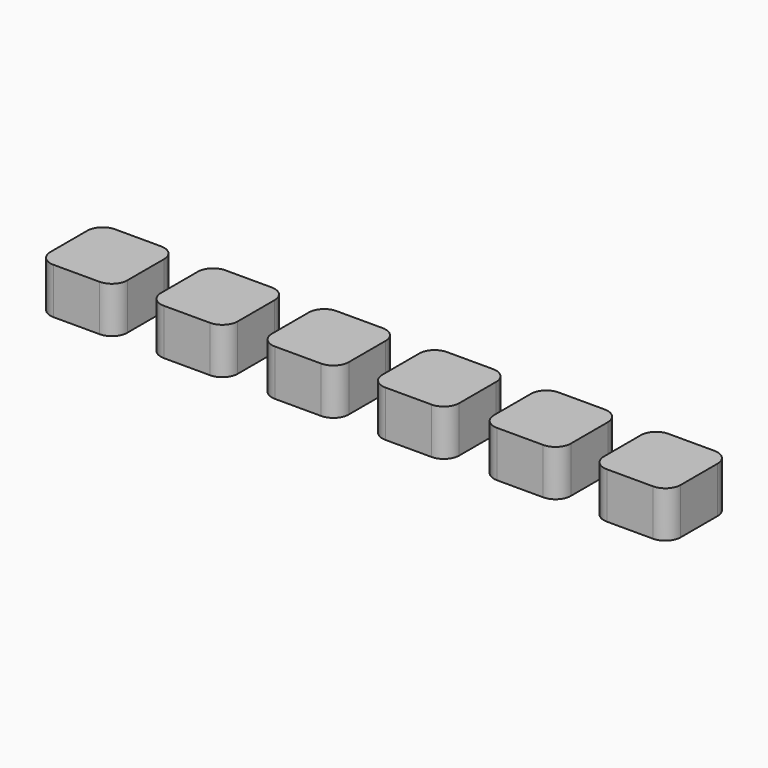
from build123d import *

# Parameters (mm, degrees)
F1_DEPTH = 3


with BuildPart() as f1:
    # F0 (on Top) → F1 (new body)
    with BuildSketch(Plane.XY):
        with BuildLine():
            Line((-32.719563, 12.147736), (-35.719563, 12.147736))
            ThreePointArc((-35.719563, 12.147736), (-36.42667, 11.854843), (-36.719563, 11.147736))
            Line((-36.719563, 11.147736), (-36.719563, 8.147736))
            ThreePointArc((-36.719563, 8.147736), (-36.42667, 7.44063), (-35.719563, 7.147736))
            Line((-35.719563, 7.147736), (-32.719563, 7.147736))
            ThreePointArc((-32.719563, 7.147736), (-32.012457, 7.44063), (-31.719563, 8.147736))
            Line((-31.719563, 8.147736), (-31.719563, 11.147736))
            ThreePointArc((-31.719563, 11.147736), (-32.012457, 11.854843), (-32.719563, 12.147736))
        make_face()
        with BuildLine():
            Line((-11.119563, 12.133538), (-14.119563, 12.133538))
            ThreePointArc((-14.119563, 12.133538), (-14.82667, 11.840645), (-15.119563, 11.133538))
            Line((-15.119563, 11.133538), (-15.119563, 8.133538))
            ThreePointArc((-15.119563, 8.133538), (-14.82667, 7.426431), (-14.119563, 7.133538))
            Line((-14.119563, 7.133538), (-11.119563, 7.133538))
            ThreePointArc((-11.119563, 7.133538), (-10.412457, 7.426431), (-10.119563, 8.133538))
            Line((-10.119563, 8.133538), (-10.119563, 11.133538))
            ThreePointArc((-10.119563, 11.133538), (-10.412457, 11.840645), (-11.119563, 12.133538))
        make_face()
        with BuildLine():
            Line((-18.319563, 12.204323), (-21.319563, 12.204323))
            ThreePointArc((-21.319563, 12.204323), (-22.02667, 11.91143), (-22.319563, 11.204323))
            Line((-22.319563, 11.204323), (-22.319563, 8.204323))
            ThreePointArc((-22.319563, 8.204323), (-22.02667, 7.497216), (-21.319563, 7.204323))
            Line((-21.319563, 7.204323), (-18.319563, 7.204323))
            ThreePointArc((-18.319563, 7.204323), (-17.612457, 7.497216), (-17.319563, 8.204323))
            Line((-17.319563, 8.204323), (-17.319563, 11.204323))
            ThreePointArc((-17.319563, 11.204323), (-17.612457, 11.91143), (-18.319563, 12.204323))
        make_face()
        with BuildLine():
            Line((-25.519563, 12.128757), (-28.519563, 12.128757))
            ThreePointArc((-28.519563, 12.128757), (-29.22667, 11.835864), (-29.519563, 11.128757))
            Line((-29.519563, 11.128757), (-29.519563, 8.128757))
            ThreePointArc((-29.519563, 8.128757), (-29.22667, 7.42165), (-28.519563, 7.128757))
            Line((-28.519563, 7.128757), (-25.519563, 7.128757))
            ThreePointArc((-25.519563, 7.128757), (-24.812457, 7.42165), (-24.519563, 8.128757))
            Line((-24.519563, 8.128757), (-24.519563, 11.128757))
            ThreePointArc((-24.519563, 11.128757), (-24.812457, 11.835864), (-25.519563, 12.128757))
        make_face()
        with BuildLine():
            ThreePointArc((-50.119563, 12.140886), (-50.82667, 11.847993), (-51.119563, 11.140886))
            Line((-51.119563, 11.140886), (-51.119563, 8.140886))
            ThreePointArc((-51.119563, 8.140886), (-50.82667, 7.433779), (-50.119563, 7.140886))
            Line((-50.119563, 7.140886), (-47.119563, 7.140886))
            ThreePointArc((-47.119563, 7.140886), (-46.412457, 7.433779), (-46.119563, 8.140886))
            Line((-46.119563, 8.140886), (-46.119563, 11.140886))
            ThreePointArc((-46.119563, 11.140886), (-46.412457, 11.847993), (-47.119563, 12.140886))
            Line((-47.119563, 12.140886), (-50.119563, 12.140886))
        make_face()
        with BuildLine():
            ThreePointArc((-43.919563, 8.121907), (-43.62667, 7.4148), (-42.919563, 7.121907))
            Line((-42.919563, 7.121907), (-39.919563, 7.121907))
            ThreePointArc((-39.919563, 7.121907), (-39.212457, 7.4148), (-38.919563, 8.121907))
            Line((-38.919563, 8.121907), (-38.919563, 11.121907))
            ThreePointArc((-38.919563, 11.121907), (-39.212457, 11.829013), (-39.919563, 12.121907))
            Line((-39.919563, 12.121907), (-42.919563, 12.121907))
            ThreePointArc((-42.919563, 12.121907), (-43.62667, 11.829013), (-43.919563, 11.121907))
            Line((-43.919563, 11.121907), (-43.919563, 8.121907))
        make_face()
    extrude(amount=F1_DEPTH)


solid = f1.part
